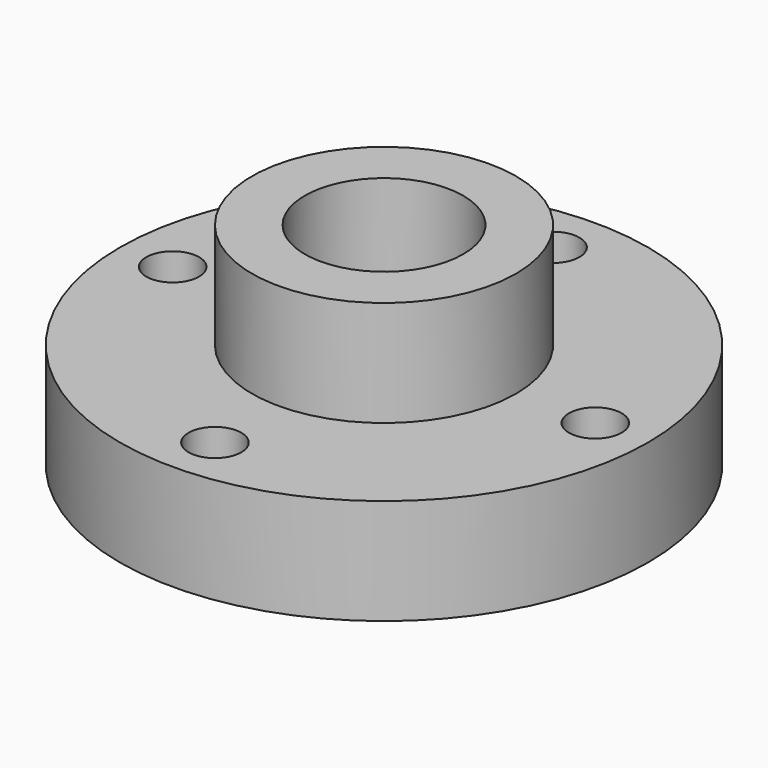
from build123d import *

# Parameters (mm, degrees)
F0_R     = 31.75
F0_R_2   = 9.525
F1_DEPTH = 12.7
F2_R     = 15.875
F2_R_2   = 9.525
F3_DEPTH = 12.7
F4_R     = 3.175
F5_DEPTH = 12.7


with BuildPart() as f1:
    # F0 (on Top) → F1 (new body)
    with BuildSketch(Plane.XY):
        Circle(F0_R)
        Circle(F0_R_2, mode=Mode.SUBTRACT)
    extrude(amount=F1_DEPTH)

    # F2 (on face) → F3 (join)
    with BuildSketch(Plane.XY.offset(12.7)):
        Circle(F2_R)
        Circle(F2_R_2, mode=Mode.SUBTRACT)
    extrude(amount=F3_DEPTH)

    # F4 (on face) → F5 (cut, through all)
    with BuildSketch(Plane.XY.offset(12.7)):
        with Locations((-25.4, 0)):
            Circle(F4_R)
        with Locations((0, -25.4)):
            Circle(F4_R)
        with Locations((25.4, 0)):
            Circle(F4_R)
        with Locations((0, 25.4)):
            Circle(F4_R)
    extrude(amount=-F5_DEPTH, mode=Mode.SUBTRACT)


solid = f1.part
